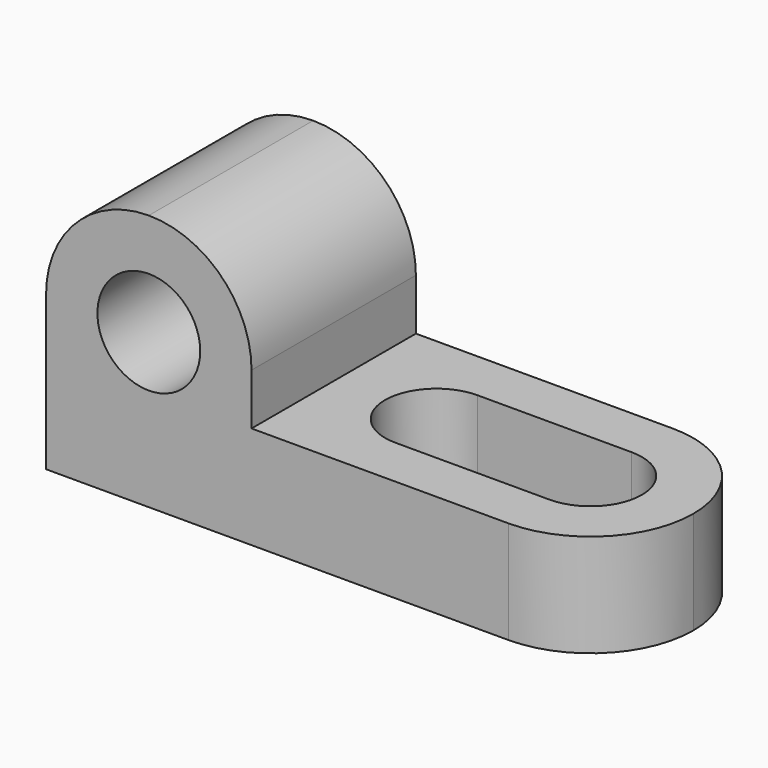
from build123d import *

# Parameters (mm, degrees)
F1_DEPTH = 25.4
F2_R     = 6.354917
F3_DEPTH = 25.4
F5_DEPTH = 25.4


with BuildPart() as f1:
    # F0 (on Front) → F1 (new body)
    with BuildSketch(Plane.XZ):
        Polygon((0, 31.75), (0, 0), (69.85, 0), (69.85, 12.7), (25.4, 12.7), (25.4, 31.75), align=None)
    extrude(amount=F1_DEPTH)

    # F2 (on face) → F3 (cut)
    with BuildSketch(Plane.XZ.offset(25.4)):
        with BuildLine():
            ThreePointArc((12.7, 31.75), (21.680256, 28.030256), (25.4, 19.05))
            Line((25.4, 19.05), (25.4, 31.75))
            Line((25.4, 31.75), (12.7, 31.75))
        make_face()
        with BuildLine():
            ThreePointArc((0, 19.05), (3.719744, 28.030256), (12.7, 31.75))
            Line((12.7, 31.75), (0, 31.75))
            Line((0, 31.75), (0, 19.05))
        make_face()
        with Locations((12.7, 19.05)):
            Circle(F2_R)
    extrude(amount=-F3_DEPTH, mode=Mode.SUBTRACT)

    # F4 (on face) → F5 (cut)
    with BuildSketch(Plane.XY.offset(12.7)):
        with BuildLine():
            ThreePointArc((38.1, -19.05), (42.590128, -17.190128), (44.45, -12.7))
            ThreePointArc((44.45, -12.7), (42.590128, -8.209872), (38.1, -6.35))
            ThreePointArc((38.1, -6.35), (31.75, -12.7), (38.1, -19.05))
        make_face()
        with BuildLine():
            ThreePointArc((38.1, -6.35), (42.590128, -8.209872), (44.45, -12.7))
            ThreePointArc((44.45, -12.7), (42.590128, -17.190128), (38.1, -19.05))
            Line((38.1, -19.05), (57.15, -19.05))
            ThreePointArc((57.15, -19.05), (50.8, -12.7), (57.15, -6.35))
            Line((57.15, -6.35), (38.1, -6.35))
        make_face()
        with BuildLine():
            ThreePointArc((63.5, -12.7), (61.640128, -8.209872), (57.15, -6.35))
            ThreePointArc((57.15, -6.35), (50.8, -12.7), (57.15, -19.05))
            ThreePointArc((57.15, -19.05), (61.640128, -17.190128), (63.5, -12.7))
        make_face()
        with BuildLine():
            ThreePointArc((57.15, 0), (66.130256, -3.719744), (69.85, -12.7))
            Line((69.85, -12.7), (69.85, 0))
            Line((69.85, 0), (57.15, 0))
        make_face()
        with BuildLine():
            ThreePointArc((69.85, -12.7), (66.130256, -21.680256), (57.15, -25.4))
            Line((57.15, -25.4), (69.85, -25.4))
            Line((69.85, -25.4), (69.85, -12.7))
        make_face()
    extrude(amount=-F5_DEPTH, mode=Mode.SUBTRACT)


solid = f1.part
